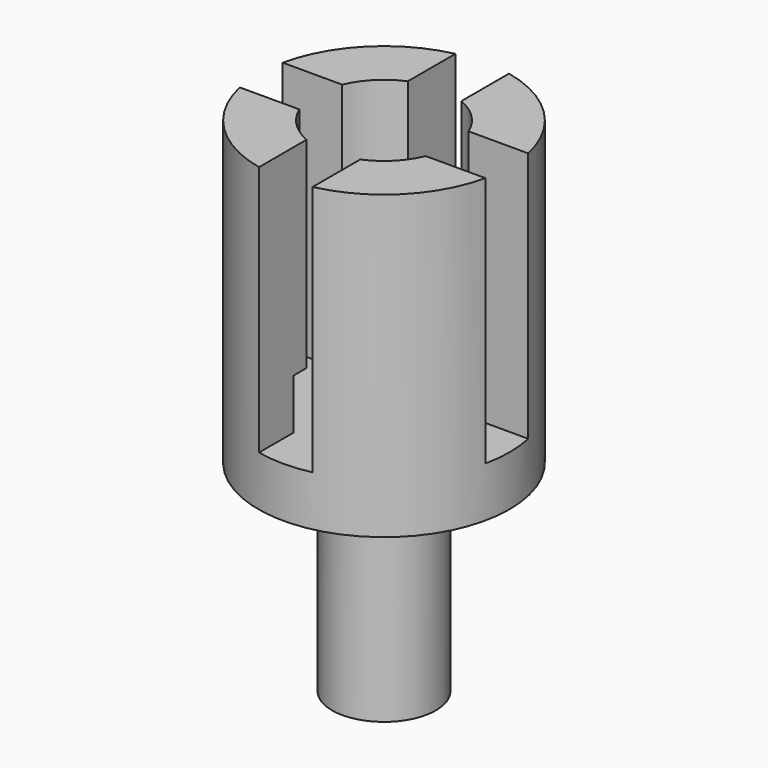
from build123d import *

# Parameters (mm, degrees)
F2_W     = 3.2
F2_H     = 7
F2_W_2   = 7
F2_H_2   = 3.2
F3_DEPTH = 15


with BuildPart() as f1:
    # F0 (on Front) → F1 (revolve)
    with BuildSketch(Plane.XZ):
        Polygon((-3.1, 0), (0, 0), (0, 15), (-5, 15), (-5, 18), (-4.1, 18), (-4.1, 30), (-7.5, 30), (-7.5, 12), (-3.1, 12), align=None)
    revolve(axis=Axis((0, 0, 7.5), (0, 0, -1)))

    # F2 (on face) → F3 (cut)
    with BuildSketch(Plane.XY.offset(30)):
        with Locations((0, 6.672472)):
            Rectangle(F2_W, F2_H)
        with Locations((-6.672472, 0)):
            Rectangle(F2_W_2, F2_H_2)
        with Locations((0, -6.672472)):
            Rectangle(F2_W, F2_H)
        with Locations((6.672472, 0)):
            Rectangle(F2_W_2, F2_H_2)
    extrude(amount=-F3_DEPTH, mode=Mode.SUBTRACT)


solid = f1.part
